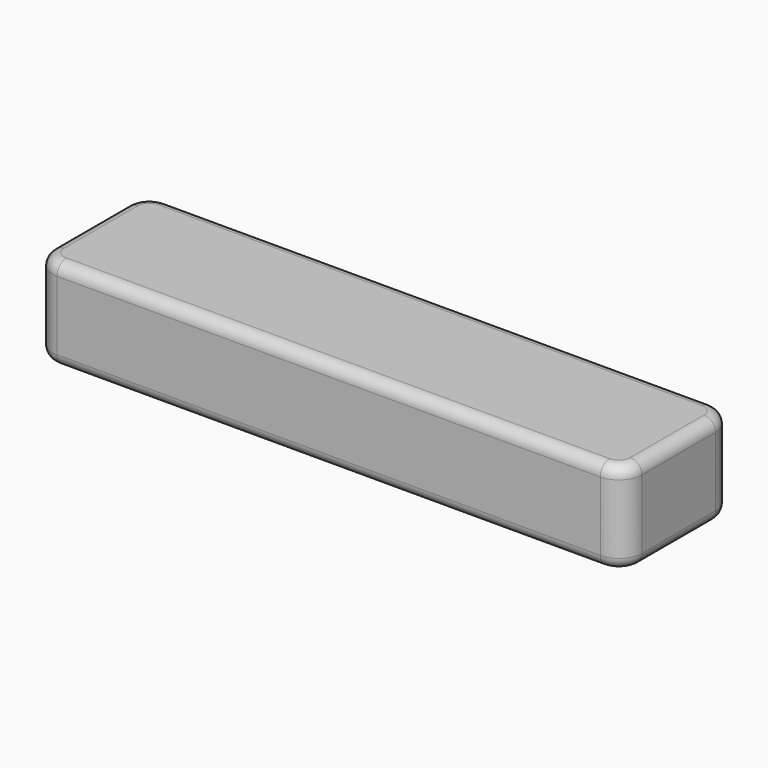
from build123d import *

# Parameters (mm, degrees)
F0_W     = 4.7625
F0_H     = 4.7625
F1_DEPTH = 3.175
F2_R     = 0.396875


with BuildPart() as f1:
    # F0 (on Top) → F1 (new body)
    with BuildSketch(Plane.XY):
        with BuildLine():
            Line((9.36625, 2.38125), (2.38125, 2.38125))
            Line((2.38125, 2.38125), (2.38125, -2.38125))
            Line((2.38125, -2.38125), (9.36625, -2.38125))
            ThreePointArc((9.36625, -2.38125), (9.9275160076, -2.1487660076), (10.16, -1.5875))
            Line((10.16, -1.5875), (10.16, 1.5875))
            ThreePointArc((10.16, 1.5875), (9.9275160076, 2.1487660076), (9.36625, 2.38125))
        make_face()
        Rectangle(F0_W, F0_H)
        with BuildLine():
            Line((-2.38125, -2.38125), (-2.38125, 2.38125))
            Line((-2.38125, 2.38125), (-9.36625, 2.38125))
            ThreePointArc((-9.36625, 2.38125), (-9.9275160076, 2.1487660076), (-10.16, 1.5875))
            Line((-10.16, 1.5875), (-10.16, -1.5875))
            ThreePointArc((-10.16, -1.5875), (-9.9275160076, -2.1487660076), (-9.36625, -2.38125))
            Line((-9.36625, -2.38125), (-2.38125, -2.38125))
        make_face()
    extrude(amount=F1_DEPTH)

    # F2
    f2_edges = [f1.edges().sort_by_distance(p)[0] for p in [
        (0, 2.38125, 3.175),
        (-9.927516, 2.148766, 3.175),
        (-10.16, 0, 3.175),
        (-9.927516, -2.148766, 3.175),
        (0, -2.38125, 3.175),
        (9.927516, -2.148766, 3.175),
        (10.16, 0, 3.175),
        (9.927516, 2.148766, 3.175),
        (0, 2.38125, 0),
        (-9.927516, 2.148766, 0),
        (-10.16, 0, 0),
        (-9.927516, -2.148766, 0),
        (0, -2.38125, 0),
        (9.927516, -2.148766, 0),
        (10.16, 0, 0),
        (9.927516, 2.148766, 0),
    ]]
    fillet(f2_edges, radius=F2_R)


solid = f1.part
